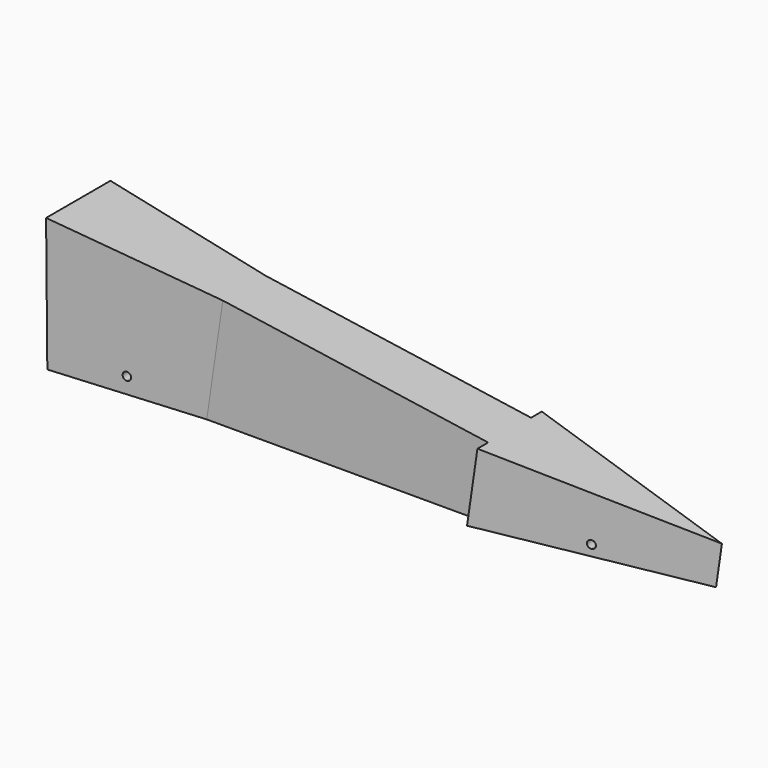
from build123d import *

# Parameters (mm, degrees)
F1_DEPTH   = 38.1
F2_R       = 9.525
F3_DEPTH   = 101.6
F1_FACE2_W = 38.1
F1_FACE2_H = 19.05
F5_DEPTH   = 152.4
F7_DEPTH   = 63.5
F9_DEPTH   = 50.8
F10_R      = 0.635
F11_DEPTH  = 1.6002


with BuildPart() as f1:
    # F0 (on Front) → F1 (new body)
    with BuildSketch(Plane.XZ):
        Polygon((0, 63.5), (0, 0), (304.8, 0), (304.8, 19.05), align=None)
    extrude(amount=F1_DEPTH)

    # F2 (on face) → F3 (cut)
    with BuildSketch(Plane(origin=(0, 0, 0), x_dir=(0, -1, 0), z_dir=(-1, 0, 0))):
        with Locations((19.05, 38.1)):
            Circle(F2_R)
    extrude(amount=-F3_DEPTH, mode=Mode.SUBTRACT)

    # F4 (on face) + F1_face2 (on face) → F5 (cut)
    with BuildSketch(Plane(origin=(9.0675733107, 0, 62.1776455589), x_dir=(0.9895329811, 0, -0.1443068931), z_dir=(0.1443068931, 0, 0.9895329811))):
        Polygon((197.2606063151, -6.35), (197.2606063151, 0), (-9.1634877101, 0), (70.2606063151, -6.35), (95.6606063151, -6.35), align=None)
        Polygon((-9.1634877101, -38.1), (197.2606063151, -38.1), (197.2606063151, -31.75), (95.6606063151, -31.75), (70.2606063151, -31.75), align=None)
        Polygon((298.8606063151, -19.05), (298.8606063151, 0), (197.2606063151, 0), align=None)
        Polygon((298.8606063151, -38.1), (298.8606063151, -19.05), (197.2606063151, -38.1), align=None)
    with BuildSketch(Plane(origin=(304.8, -19.05, 9.525), x_dir=(0, 1, 0), z_dir=(1, 0, 0))):
        Rectangle(F1_FACE2_W, F1_FACE2_H)
    extrude(amount=-F5_DEPTH, dir=(0.1443068931, 0, 0.9895329811), mode=Mode.SUBTRACT)

    # F6 (on face) → F7 (cut)
    with BuildSketch(Plane(origin=(2.9374947207, -37.1300355722, -0.4283846468), x_dir=(0.9968855377, 0.0788568126, 0.0009098038), z_dir=(0.0788620609, -0.9968191957, -0.0115007172))):
        with BuildLine():
            ThreePointArc((34.5711449956, 8.0186913962), (31.3191065774, 9.3657298144), (32.6661449956, 6.1136913962))
            ThreePointArc((32.6661449956, 6.1136913962), (34.0131834138, 6.6716529781), (34.5711449956, 8.0186913962))
        make_face()
    extrude(amount=-F7_DEPTH, mode=Mode.SUBTRACT)

    # F8 (on face) → F9 (cut)
    with BuildSketch(Plane(origin=(13.4581916909, -72.5362607665, -1.9626529549), x_dir=(0.9832319067, 0.1822928664, 0.004932397), z_dir=(0.1823595835, -0.9828721869, -0.0265941059))):
        with BuildLine():
            ThreePointArc((241.2876717144, 3.947847759), (242.6407823243, 4.5024670011), (243.2020712552, 5.8528245695))
            ThreePointArc((243.2020712552, 5.8528245695), (239.953360186, 7.2031821379), (241.2876717144, 3.947847759))
        make_face()
    extrude(amount=-F9_DEPTH, mode=Mode.SUBTRACT)

    # F10 (on face) → F11 (cut)
    with BuildSketch(Plane(origin=(0, 0, 0), x_dir=(1, 0, 0), z_dir=(0, 0, -1))):
        with Locations((250.615478633, 18.1772389299)):
            Circle(F10_R)
    extrude(amount=-F11_DEPTH, mode=Mode.SUBTRACT)


solid = f1.part
